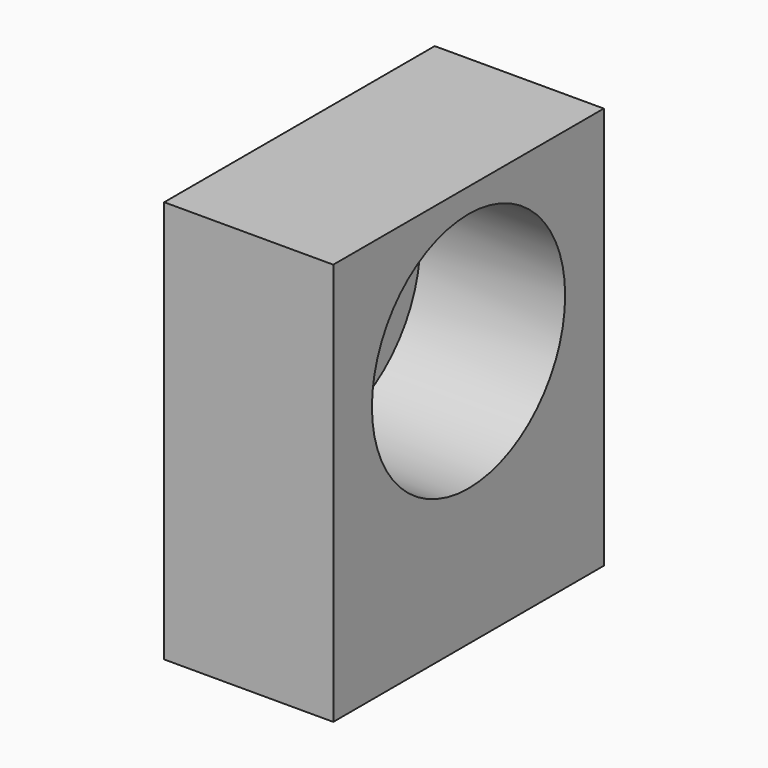
from build123d import *

# Parameters (mm, degrees)
F0_W     = 42
F0_H     = 50
F0_R     = 15
F1_DEPTH = 18
F0_R_2   = 7.5
F2_DEPTH = 3


with BuildPart() as f1:
    # F0 (on Right) → F1 (new body)
    with BuildSketch(Plane.YZ):
        with Locations((0, 25)):
            Rectangle(F0_W, F0_H)
        with Locations((0, 32)):
            Circle(F0_R, mode=Mode.SUBTRACT)
    extrude(amount=F1_DEPTH)

    # F0 (on Right) → F2 (join)
    with BuildSketch(Plane.YZ):
        with Locations((0, 25)):
            Rectangle(F0_W, F0_H)
        with Locations((0, 32)):
            Circle(F0_R, mode=Mode.SUBTRACT)
        with Locations((0, 32)):
            Circle(F0_R)
        with Locations((0, 32)):
            Circle(F0_R_2, mode=Mode.SUBTRACT)
    extrude(amount=-F2_DEPTH)


solid = f1.part
